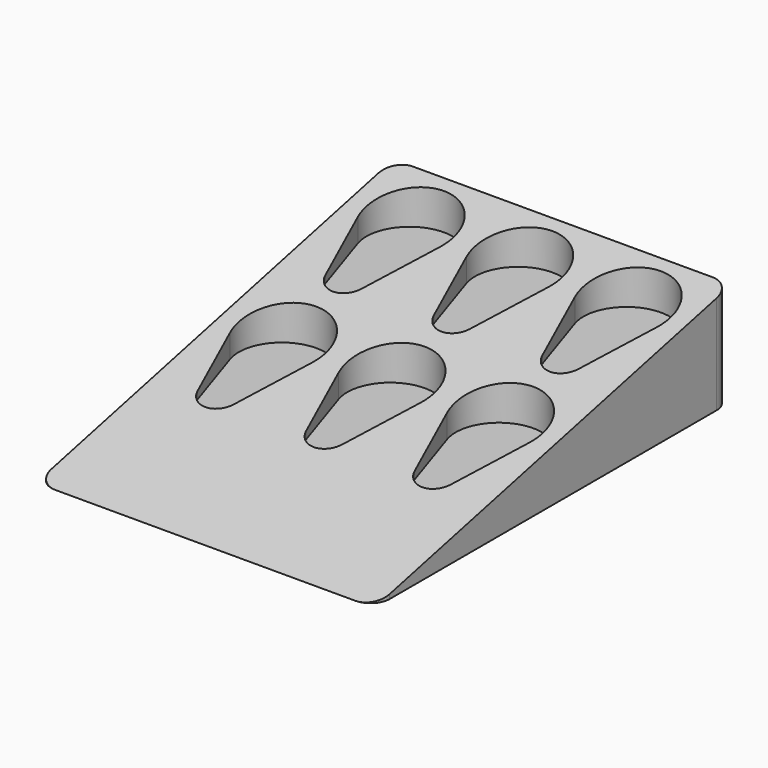
from build123d import *

# Parameters (mm, degrees)
F1_DEPTH = 25
F3_DEPTH = 53.001
F6_DEPTH = 15
F8_DEPTH = 20.8


with BuildPart() as f1:
    # F0 (on Top) → F1 (new body)
    with BuildSketch(Plane.XY):
        with BuildLine():
            Line((23.5, 35), (-23.5, 35))
            ThreePointArc((-23.5, 35), (-25.62132, 34.12132), (-26.5, 32))
            Line((-26.5, 32), (-26.5, -32))
            ThreePointArc((-26.5, -32), (-25.62132, -34.12132), (-23.5, -35))
            Line((-23.5, -35), (23.5, -35))
            ThreePointArc((23.5, -35), (25.62132, -34.12132), (26.5, -32))
            Line((26.5, -32), (26.5, 32))
            ThreePointArc((26.5, 32), (25.62132, 34.12132), (23.5, 35))
        make_face()
    extrude(amount=F1_DEPTH)

    # F2 (on face) → F3 (cut, through all)
    with BuildSketch(Plane.YZ.offset(26.5)):
        Polygon((-35, 25), (-35, 0), (35, 16.160773), (35, 25), align=None)
    extrude(amount=-F3_DEPTH, mode=Mode.SUBTRACT)

    # F5 (on offset) → F6 (cut)
    with BuildSketch(Plane.XY.offset(25)):
        with BuildLine():
            Line((2.849753, 13.3125), (6.411945, 24.140625))
            ThreePointArc((6.411945, 24.140625), (0, 33), (-6.411945, 24.140625))
            Line((-6.411945, 24.140625), (-2.849753, 13.3125))
            ThreePointArc((-2.849753, 13.3125), (0, 11.25), (2.849753, 13.3125))
        make_face()
        with BuildLine():
            Line((19.849753, 13.3125), (23.411945, 24.140625))
            ThreePointArc((23.411945, 24.140625), (17, 33), (10.588055, 24.140625))
            Line((10.588055, 24.140625), (14.150247, 13.3125))
            ThreePointArc((14.150247, 13.3125), (17, 11.25), (19.849753, 13.3125))
        make_face()
        with BuildLine():
            ThreePointArc((-19.849753, 13.3125), (-17, 11.25), (-14.150247, 13.3125))
            Line((-14.150247, 13.3125), (-10.588055, 24.140625))
            ThreePointArc((-10.588055, 24.140625), (-17, 33), (-23.411945, 24.140625))
            Line((-23.411945, 24.140625), (-19.849753, 13.3125))
        make_face()
    extrude(amount=-F6_DEPTH, mode=Mode.SUBTRACT)

    # F7 (on offset) → F8 (cut)
    with BuildSketch(Plane.XY.offset(25)):
        with BuildLine():
            Line((10.588055, -0.859375), (14.150247, -11.6875))
            ThreePointArc((14.150247, -11.6875), (17, -13.75), (19.849753, -11.6875))
            Line((19.849753, -11.6875), (23.411945, -0.859375))
            ThreePointArc((23.411945, -0.859375), (17, 8), (10.588055, -0.859375))
        make_face()
        with BuildLine():
            ThreePointArc((-2.849753, -11.6875), (0, -13.75), (2.849753, -11.6875))
            Line((2.849753, -11.6875), (6.411945, -0.859375))
            ThreePointArc((6.411945, -0.859375), (0, 8), (-6.411945, -0.859375))
            Line((-6.411945, -0.859375), (-2.849753, -11.6875))
        make_face()
        with BuildLine():
            ThreePointArc((-19.849753, -11.6875), (-17, -13.75), (-14.150247, -11.6875))
            Line((-14.150247, -11.6875), (-10.588055, -0.859375))
            ThreePointArc((-10.588055, -0.859375), (-17, 8), (-23.411945, -0.859375))
            Line((-23.411945, -0.859375), (-19.849753, -11.6875))
        make_face()
    extrude(amount=-F8_DEPTH, mode=Mode.SUBTRACT)


solid = f1.part
